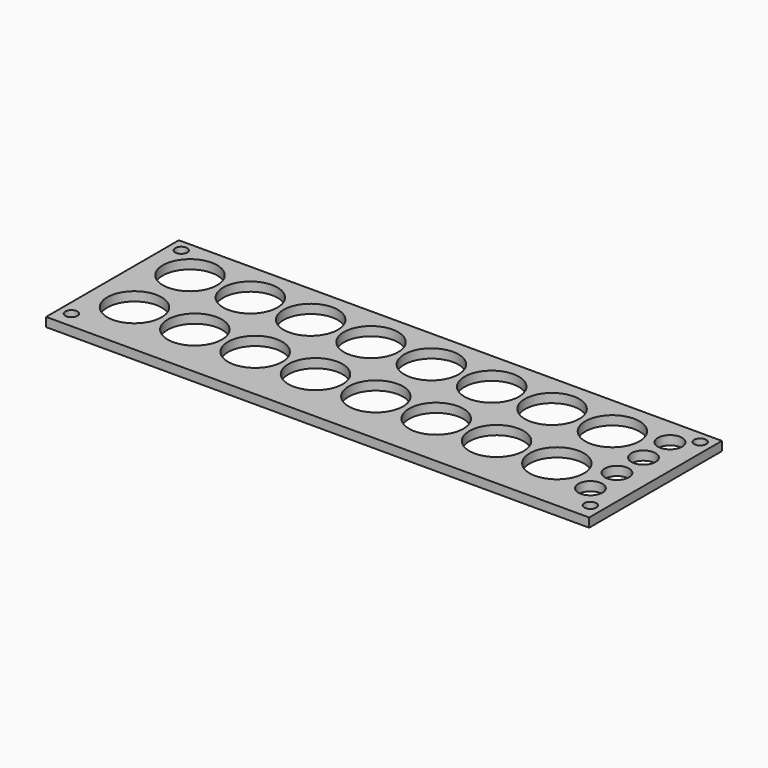
from build123d import *

# Parameters (mm, degrees)
CYLINDER023_R     = 2
CYLINDER023_DEPTH = 3
CYLINDER022_R     = 2
CYLINDER022_DEPTH = 3
CYLINDER021_R     = 2
CYLINDER021_DEPTH = 3
CYLINDER020_R     = 2
CYLINDER020_DEPTH = 3
CYLINDER019_R     = 4
CYLINDER019_DEPTH = 3
CYLINDER018_R     = 4
CYLINDER018_DEPTH = 3
CYLINDER013_R     = 4
CYLINDER013_DEPTH = 3
CYLINDER012_R     = 4
CYLINDER012_DEPTH = 3
CYLINDER017_R     = 9
CYLINDER017_DEPTH = 3
CYLINDER016_R     = 9
CYLINDER016_DEPTH = 3
CYLINDER015_R     = 9
CYLINDER015_DEPTH = 3
CYLINDER014_R     = 9
CYLINDER014_DEPTH = 3
CYLINDER007_R     = 9
CYLINDER007_DEPTH = 3
CYLINDER006_R     = 9
CYLINDER006_DEPTH = 3
CYLINDER005_R     = 9
CYLINDER005_DEPTH = 3
CYLINDER004_R     = 9
CYLINDER004_DEPTH = 3
CYLINDER011_R     = 9
CYLINDER011_DEPTH = 3
CYLINDER010_R     = 9
CYLINDER010_DEPTH = 3
CYLINDER009_R     = 9
CYLINDER009_DEPTH = 3
CYLINDER008_R     = 9
CYLINDER008_DEPTH = 3
CYLINDER003_R     = 9
CYLINDER003_DEPTH = 3
CYLINDER002_R     = 9
CYLINDER002_DEPTH = 3
CYLINDER001_R     = 9
CYLINDER001_DEPTH = 3
CYLINDER_R        = 9
CYLINDER_DEPTH    = 3
BOX_W             = 180
BOX_H             = 55
BOX_DEPTH         = 3


with BuildPart() as cylinder023:
    # Cylinder023 → Cylinder023 (new body)
    with BuildSketch(Plane(origin=(176, 51, 0), x_dir=(1, 0, 0), z_dir=(0, 0, 1))):
        Circle(CYLINDER023_R)
    extrude(amount=CYLINDER023_DEPTH)


with BuildPart() as cylinder022:
    # Cylinder022 → Cylinder022 (new body)
    with BuildSketch(Plane(origin=(4, 51, 0), x_dir=(1, 0, 0), z_dir=(0, 0, 1))):
        Circle(CYLINDER022_R)
    extrude(amount=CYLINDER022_DEPTH)


with BuildPart() as cylinder021:
    # Cylinder021 → Cylinder021 (new body)
    with BuildSketch(Plane(origin=(176, 5.5, 0), x_dir=(1, 0, 0), z_dir=(0, 0, 1))):
        Circle(CYLINDER021_R)
    extrude(amount=CYLINDER021_DEPTH)


with BuildPart() as cylinder020:
    # Cylinder020 → Cylinder020 (new body)
    with BuildSketch(Plane(origin=(4, 5.5, 0), x_dir=(1, 0, 0), z_dir=(0, 0, 1))):
        Circle(CYLINDER020_R)
    extrude(amount=CYLINDER020_DEPTH)


with BuildPart() as cylinder019:
    # Cylinder019 → Cylinder019 (new body)
    with BuildSketch(Plane(origin=(170, 13, 0), x_dir=(1, 0, 0), z_dir=(0, 0, 1))):
        Circle(CYLINDER019_R)
    extrude(amount=CYLINDER019_DEPTH)


with BuildPart() as cylinder018:
    # Cylinder018 → Cylinder018 (new body)
    with BuildSketch(Plane(origin=(170, 24, 0), x_dir=(1, 0, 0), z_dir=(0, 0, 1))):
        Circle(CYLINDER018_R)
    extrude(amount=CYLINDER018_DEPTH)


with BuildPart() as cylinder013:
    # Cylinder013 → Cylinder013 (new body)
    with BuildSketch(Plane(origin=(170, 35, 0), x_dir=(1, 0, 0), z_dir=(0, 0, 1))):
        Circle(CYLINDER013_R)
    extrude(amount=CYLINDER013_DEPTH)


with BuildPart() as cylinder012:
    # Cylinder012 → Cylinder012 (new body)
    with BuildSketch(Plane(origin=(170, 46, 0), x_dir=(1, 0, 0), z_dir=(0, 0, 1))):
        Circle(CYLINDER012_R)
    extrude(amount=CYLINDER012_DEPTH)


with BuildPart() as cylinder017:
    # Cylinder017 → Cylinder017 (new body)
    with BuildSketch(Plane(origin=(154.5, 18.5, 0), x_dir=(1, 0, 0), z_dir=(0, 0, 1))):
        Circle(CYLINDER017_R)
    extrude(amount=CYLINDER017_DEPTH)


with BuildPart() as cylinder016:
    # Cylinder016 → Cylinder016 (new body)
    with BuildSketch(Plane(origin=(134.5, 18.5, 0), x_dir=(1, 0, 0), z_dir=(0, 0, 1))):
        Circle(CYLINDER016_R)
    extrude(amount=CYLINDER016_DEPTH)


with BuildPart() as cylinder015:
    # Cylinder015 → Cylinder015 (new body)
    with BuildSketch(Plane(origin=(114.5, 18.5, 0), x_dir=(1, 0, 0), z_dir=(0, 0, 1))):
        Circle(CYLINDER015_R)
    extrude(amount=CYLINDER015_DEPTH)


with BuildPart() as cylinder014:
    # Cylinder014 → Cylinder014 (new body)
    with BuildSketch(Plane(origin=(94.5, 18.5, 0), x_dir=(1, 0, 0), z_dir=(0, 0, 1))):
        Circle(CYLINDER014_R)
    extrude(amount=CYLINDER014_DEPTH)


with BuildPart() as cylinder007:
    # Cylinder007 → Cylinder007 (new body)
    with BuildSketch(Plane(origin=(74.5, 18.5, 0), x_dir=(1, 0, 0), z_dir=(0, 0, 1))):
        Circle(CYLINDER007_R)
    extrude(amount=CYLINDER007_DEPTH)


with BuildPart() as cylinder006:
    # Cylinder006 → Cylinder006 (new body)
    with BuildSketch(Plane(origin=(54.5, 18.5, 0), x_dir=(1, 0, 0), z_dir=(0, 0, 1))):
        Circle(CYLINDER006_R)
    extrude(amount=CYLINDER006_DEPTH)


with BuildPart() as cylinder005:
    # Cylinder005 → Cylinder005 (new body)
    with BuildSketch(Plane(origin=(34.5, 18.5, 0), x_dir=(1, 0, 0), z_dir=(0, 0, 1))):
        Circle(CYLINDER005_R)
    extrude(amount=CYLINDER005_DEPTH)


with BuildPart() as cylinder004:
    # Cylinder004 → Cylinder004 (new body)
    with BuildSketch(Plane(origin=(14.5, 18.5, 0), x_dir=(1, 0, 0), z_dir=(0, 0, 1))):
        Circle(CYLINDER004_R)
    extrude(amount=CYLINDER004_DEPTH)


with BuildPart() as cylinder011:
    # Cylinder011 → Cylinder011 (new body)
    with BuildSketch(Plane(origin=(154.5, 41.5, 0), x_dir=(1, 0, 0), z_dir=(0, 0, 1))):
        Circle(CYLINDER011_R)
    extrude(amount=CYLINDER011_DEPTH)


with BuildPart() as cylinder010:
    # Cylinder010 → Cylinder010 (new body)
    with BuildSketch(Plane(origin=(134.5, 41.5, 0), x_dir=(1, 0, 0), z_dir=(0, 0, 1))):
        Circle(CYLINDER010_R)
    extrude(amount=CYLINDER010_DEPTH)


with BuildPart() as cylinder009:
    # Cylinder009 → Cylinder009 (new body)
    with BuildSketch(Plane(origin=(114.5, 41.5, 0), x_dir=(1, 0, 0), z_dir=(0, 0, 1))):
        Circle(CYLINDER009_R)
    extrude(amount=CYLINDER009_DEPTH)


with BuildPart() as cylinder008:
    # Cylinder008 → Cylinder008 (new body)
    with BuildSketch(Plane(origin=(94.5, 41.5, 0), x_dir=(1, 0, 0), z_dir=(0, 0, 1))):
        Circle(CYLINDER008_R)
    extrude(amount=CYLINDER008_DEPTH)


with BuildPart() as cylinder003:
    # Cylinder003 → Cylinder003 (new body)
    with BuildSketch(Plane(origin=(74.5, 41.5, 0), x_dir=(1, 0, 0), z_dir=(0, 0, 1))):
        Circle(CYLINDER003_R)
    extrude(amount=CYLINDER003_DEPTH)


with BuildPart() as cylinder002:
    # Cylinder002 → Cylinder002 (new body)
    with BuildSketch(Plane(origin=(54.5, 41.5, 0), x_dir=(1, 0, 0), z_dir=(0, 0, 1))):
        Circle(CYLINDER002_R)
    extrude(amount=CYLINDER002_DEPTH)


with BuildPart() as cylinder001:
    # Cylinder001 → Cylinder001 (new body)
    with BuildSketch(Plane(origin=(34.5, 41.5, 0), x_dir=(1, 0, 0), z_dir=(0, 0, 1))):
        Circle(CYLINDER001_R)
    extrude(amount=CYLINDER001_DEPTH)


with BuildPart() as cylinder:
    # Cylinder → Cylinder (new body)
    with BuildSketch(Plane(origin=(14.5, 41.5, 0), x_dir=(1, 0, 0), z_dir=(0, 0, 1))):
        Circle(CYLINDER_R)
    extrude(amount=CYLINDER_DEPTH)


with BuildPart() as cut023:
    # Box → Box (new body)
    with BuildSketch(Plane.XY):
        with Locations((90, 27.5)):
            Rectangle(BOX_W, BOX_H)
    extrude(amount=BOX_DEPTH)

    # Cut: cut Cylinder
    add(cylinder.part, mode=Mode.SUBTRACT)

    # Cut001: cut Cylinder001
    add(cylinder001.part, mode=Mode.SUBTRACT)

    # Cut002: cut Cylinder002
    add(cylinder002.part, mode=Mode.SUBTRACT)

    # Cut003: cut Cylinder003
    add(cylinder003.part, mode=Mode.SUBTRACT)

    # Cut004: cut Cylinder008
    add(cylinder008.part, mode=Mode.SUBTRACT)

    # Cut005: cut Cylinder009
    add(cylinder009.part, mode=Mode.SUBTRACT)

    # Cut006: cut Cylinder010
    add(cylinder010.part, mode=Mode.SUBTRACT)

    # Cut007: cut Cylinder011
    add(cylinder011.part, mode=Mode.SUBTRACT)

    # Cut008: cut Cylinder004
    add(cylinder004.part, mode=Mode.SUBTRACT)

    # Cut009: cut Cylinder005
    add(cylinder005.part, mode=Mode.SUBTRACT)

    # Cut010: cut Cylinder006
    add(cylinder006.part, mode=Mode.SUBTRACT)

    # Cut011: cut Cylinder007
    add(cylinder007.part, mode=Mode.SUBTRACT)

    # Cut012: cut Cylinder014
    add(cylinder014.part, mode=Mode.SUBTRACT)

    # Cut013: cut Cylinder015
    add(cylinder015.part, mode=Mode.SUBTRACT)

    # Cut014: cut Cylinder016
    add(cylinder016.part, mode=Mode.SUBTRACT)

    # Cut015: cut Cylinder017
    add(cylinder017.part, mode=Mode.SUBTRACT)

    # Cut016: cut Cylinder012
    add(cylinder012.part, mode=Mode.SUBTRACT)

    # Cut017: cut Cylinder013
    add(cylinder013.part, mode=Mode.SUBTRACT)

    # Cut018: cut Cylinder018
    add(cylinder018.part, mode=Mode.SUBTRACT)

    # Cut019: cut Cylinder019
    add(cylinder019.part, mode=Mode.SUBTRACT)

    # Cut020: cut Cylinder020
    add(cylinder020.part, mode=Mode.SUBTRACT)

    # Cut021: cut Cylinder021
    add(cylinder021.part, mode=Mode.SUBTRACT)

    # Cut022: cut Cylinder022
    add(cylinder022.part, mode=Mode.SUBTRACT)

    # Cut023: cut Cylinder023
    add(cylinder023.part, mode=Mode.SUBTRACT)


solid = cut023.part
